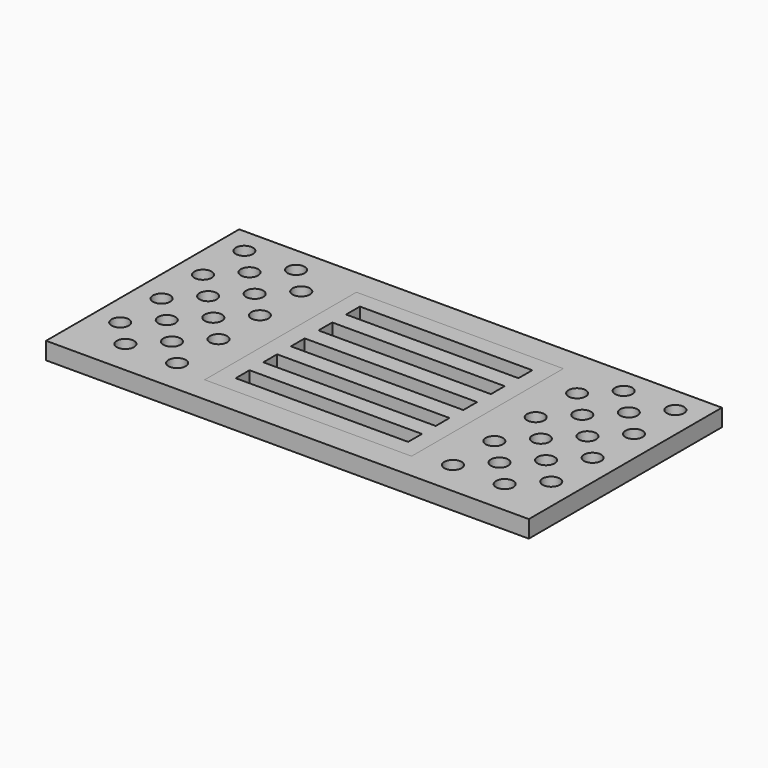
from build123d import *

# Parameters (mm, degrees)
F0_W     = 177.8
F0_H     = 88.9
F0_R     = 3.175
F0_W_2   = 76.2
F0_H_2   = 69.85
F1_DEPTH = 6.35
F0_W_3   = 63.5
F0_H_3   = 6.35
F2_DEPTH = 6.35


with BuildPart() as f1:
    # F0 (on Top) → F1 (new body)
    with BuildSketch(Plane.XY):
        with Locations((88.9, -44.45)):
            Rectangle(F0_W, F0_H)
        with Locations((19.05, -76.2)):
            Circle(F0_R, mode=Mode.SUBTRACT)
        with Locations((38.1, -76.2)):
            Circle(F0_R, mode=Mode.SUBTRACT)
        with Locations((9.525, -66.675)):
            Circle(F0_R, mode=Mode.SUBTRACT)
        with Locations((19.05, -57.15)):
            Circle(F0_R, mode=Mode.SUBTRACT)
        with Locations((28.575, -66.675)):
            Circle(F0_R, mode=Mode.SUBTRACT)
        with Locations((38.1, -57.15)):
            Circle(F0_R, mode=Mode.SUBTRACT)
        with Locations((9.525, -47.625)):
            Circle(F0_R, mode=Mode.SUBTRACT)
        with Locations((28.575, -47.625)):
            Circle(F0_R, mode=Mode.SUBTRACT)
        with Locations((139.7, -76.2)):
            Circle(F0_R, mode=Mode.SUBTRACT)
        with Locations((158.75, -76.2)):
            Circle(F0_R, mode=Mode.SUBTRACT)
        with Locations((149.225, -66.675)):
            Circle(F0_R, mode=Mode.SUBTRACT)
        with Locations((139.7, -57.15)):
            Circle(F0_R, mode=Mode.SUBTRACT)
        with Locations((168.275, -66.675)):
            Circle(F0_R, mode=Mode.SUBTRACT)
        with Locations((158.75, -57.15)):
            Circle(F0_R, mode=Mode.SUBTRACT)
        with Locations((149.225, -47.625)):
            Circle(F0_R, mode=Mode.SUBTRACT)
        with Locations((168.275, -47.625)):
            Circle(F0_R, mode=Mode.SUBTRACT)
        with Locations((19.05, -38.1)):
            Circle(F0_R, mode=Mode.SUBTRACT)
        with Locations((38.1, -38.1)):
            Circle(F0_R, mode=Mode.SUBTRACT)
        with Locations((9.525, -28.575)):
            Circle(F0_R, mode=Mode.SUBTRACT)
        with Locations((28.575, -28.575)):
            Circle(F0_R, mode=Mode.SUBTRACT)
        with Locations((19.05, -19.05)):
            Circle(F0_R, mode=Mode.SUBTRACT)
        with Locations((38.1, -19.05)):
            Circle(F0_R, mode=Mode.SUBTRACT)
        with Locations((9.525, -9.525)):
            Circle(F0_R, mode=Mode.SUBTRACT)
        with Locations((28.575, -9.525)):
            Circle(F0_R, mode=Mode.SUBTRACT)
        with Locations((88.9, -44.45)):
            Rectangle(F0_W_2, F0_H_2, mode=Mode.SUBTRACT)
        with Locations((139.7, -38.1)):
            Circle(F0_R, mode=Mode.SUBTRACT)
        with Locations((158.75, -38.1)):
            Circle(F0_R, mode=Mode.SUBTRACT)
        with Locations((149.225, -28.575)):
            Circle(F0_R, mode=Mode.SUBTRACT)
        with Locations((168.275, -28.575)):
            Circle(F0_R, mode=Mode.SUBTRACT)
        with Locations((139.7, -19.05)):
            Circle(F0_R, mode=Mode.SUBTRACT)
        with Locations((158.75, -19.05)):
            Circle(F0_R, mode=Mode.SUBTRACT)
        with Locations((149.225, -9.525)):
            Circle(F0_R, mode=Mode.SUBTRACT)
        with Locations((168.275, -9.525)):
            Circle(F0_R, mode=Mode.SUBTRACT)
    extrude(amount=F1_DEPTH)


with BuildPart() as f2:
    # F0 (on Top) → F2 (new body)
    with BuildSketch(Plane.XY):
        with Locations((88.9, -44.45)):
            Rectangle(F0_W_2, F0_H_2)
        with Locations((88.9, -69.85)):
            Rectangle(F0_W_3, F0_H_3, mode=Mode.SUBTRACT)
        with Locations((88.9, -57.15)):
            Rectangle(F0_W_3, F0_H_3, mode=Mode.SUBTRACT)
        with Locations((88.9, -44.45)):
            Rectangle(F0_W_3, F0_H_3, mode=Mode.SUBTRACT)
        with Locations((88.9, -31.75)):
            Rectangle(F0_W_3, F0_H_3, mode=Mode.SUBTRACT)
        with Locations((88.9, -19.05)):
            Rectangle(F0_W_3, F0_H_3, mode=Mode.SUBTRACT)
    extrude(amount=F2_DEPTH)


solid = Compound([f1.part, f2.part])
